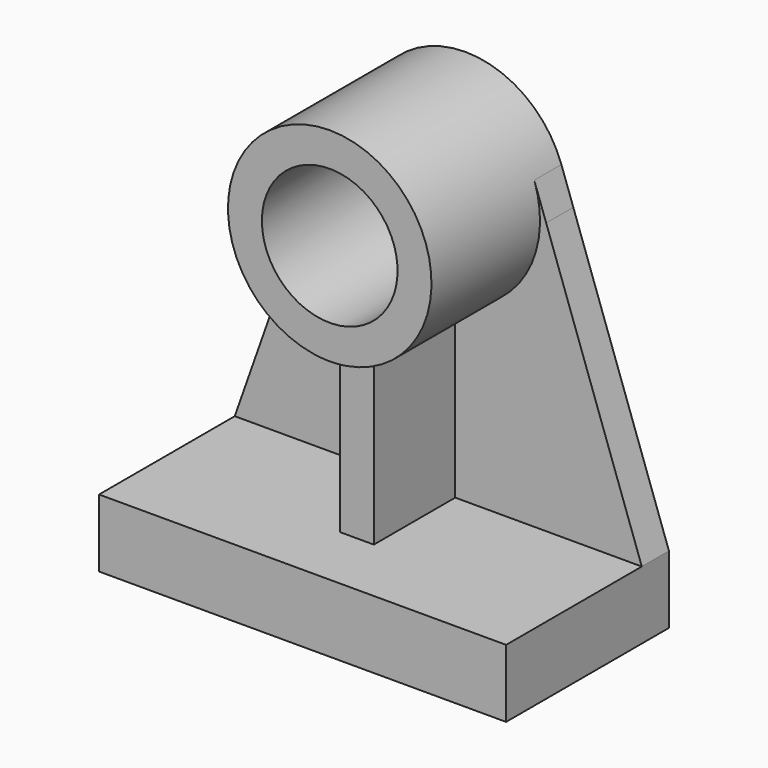
from build123d import *

# Parameters (mm, degrees)
F1_DEPTH = 152.4
F2_DEPTH = 25.4
F3_DEPTH = 101.6
F4_DEPTH = 127


with BuildPart() as f1:
    # F0 (on Front) → F1 (new body)
    with BuildSketch(Plane.XZ):
        Polygon((0, 50.8), (0, 0), (304.8, 0), (304.8, 50.8), (165.1, 50.8), (152.4, 50.8), (139.7, 50.8), align=None)
    extrude(amount=F1_DEPTH)

    # F0 (on Front) → F2 (join)
    with BuildSketch(Plane.XZ):
        with BuildLine():
            Line((165.1, 50.8), (304.8, 50.8))
            Line((304.8, 50.8), (233.192970397, 254))
            Line((233.192970397, 254), (228.6, 254))
            ThreePointArc((228.6, 254), (210.5987113259, 204.8131115032), (165.1, 178.8657867546))
            Line((165.1, 178.8657867546), (165.1, 50.8))
        make_face()
        with BuildLine():
            Line((71.607029603, 254), (0, 50.8))
            Line((0, 50.8), (139.7, 50.8))
            Line((139.7, 50.8), (139.7, 178.8657867546))
            ThreePointArc((139.7, 178.8657867546), (94.2012886741, 204.8131115032), (76.2, 254))
            Line((76.2, 254), (71.607029603, 254))
        make_face()
        with BuildLine():
            Line((80.5318662816, 279.3261002888), (71.607029603, 254))
            Line((71.607029603, 254), (76.2, 254))
            ThreePointArc((76.2, 254), (77.2907735716, 266.8469492616), (80.5318662816, 279.3261002888))
        make_face()
        with BuildLine():
            Line((228.6, 254), (233.192970397, 254))
            Line((233.192970397, 254), (224.2681337184, 279.3261002888))
            ThreePointArc((224.2681337184, 279.3261002888), (227.5092264284, 266.8469492616), (228.6, 254))
        make_face()
    extrude(amount=F2_DEPTH)

    # F0 (on Front) → F3 (join)
    with BuildSketch(Plane.XZ):
        with BuildLine():
            Line((152.4, 50.8), (165.1, 50.8))
            Line((165.1, 50.8), (165.1, 178.8657867546))
            ThreePointArc((165.1, 178.8657867546), (158.7723210333, 178.0669141635), (152.4, 177.8))
            Line((152.4, 177.8), (152.4, 50.8))
        make_face()
        with BuildLine():
            Line((139.7, 178.8657867546), (139.7, 50.8))
            Line((139.7, 50.8), (152.4, 50.8))
            Line((152.4, 50.8), (152.4, 177.8))
            ThreePointArc((152.4, 177.8), (146.0276789667, 178.0669141635), (139.7, 178.8657867546))
        make_face()
    extrude(amount=F3_DEPTH)

    # F0 (on Front) → F4 (join)
    with BuildSketch(Plane.XZ):
        with BuildLine():
            ThreePointArc((76.2, 254), (94.2012886741, 204.8131115032), (139.7, 178.8657867546))
            Line((139.7, 178.8657867546), (152.4, 178.8657867546))
            Line((152.4, 178.8657867546), (165.1, 178.8657867546))
            ThreePointArc((165.1, 178.8657867546), (210.5987113259, 204.8131115032), (228.6, 254))
            Line((228.6, 254), (203.2, 254))
            ThreePointArc((203.2, 254), (152.4, 203.2), (101.6, 254))
            Line((101.6, 254), (76.2, 254))
        make_face()
        with BuildLine():
            ThreePointArc((80.5318662816, 279.3261002888), (77.2907735716, 266.8469492616), (76.2, 254))
            Line((76.2, 254), (101.6, 254))
            ThreePointArc((101.6, 254), (152.4, 304.8), (203.2, 254))
            Line((203.2, 254), (228.6, 254))
            ThreePointArc((228.6, 254), (227.5092264284, 266.8469492616), (224.2681337184, 279.3261002888))
            ThreePointArc((224.2681337184, 279.3261002888), (152.4, 330.2), (80.5318662816, 279.3261002888))
        make_face()
        with BuildLine():
            Line((152.4, 178.8657867546), (139.7, 178.8657867546))
            ThreePointArc((139.7, 178.8657867546), (146.0276789667, 178.0669141635), (152.4, 177.8))
            Line((152.4, 177.8), (152.4, 178.8657867546))
        make_face()
        with BuildLine():
            ThreePointArc((152.4, 177.8), (158.7723210333, 178.0669141635), (165.1, 178.8657867546))
            Line((165.1, 178.8657867546), (152.4, 178.8657867546))
            Line((152.4, 178.8657867546), (152.4, 177.8))
        make_face()
    extrude(amount=F4_DEPTH)


solid = f1.part
